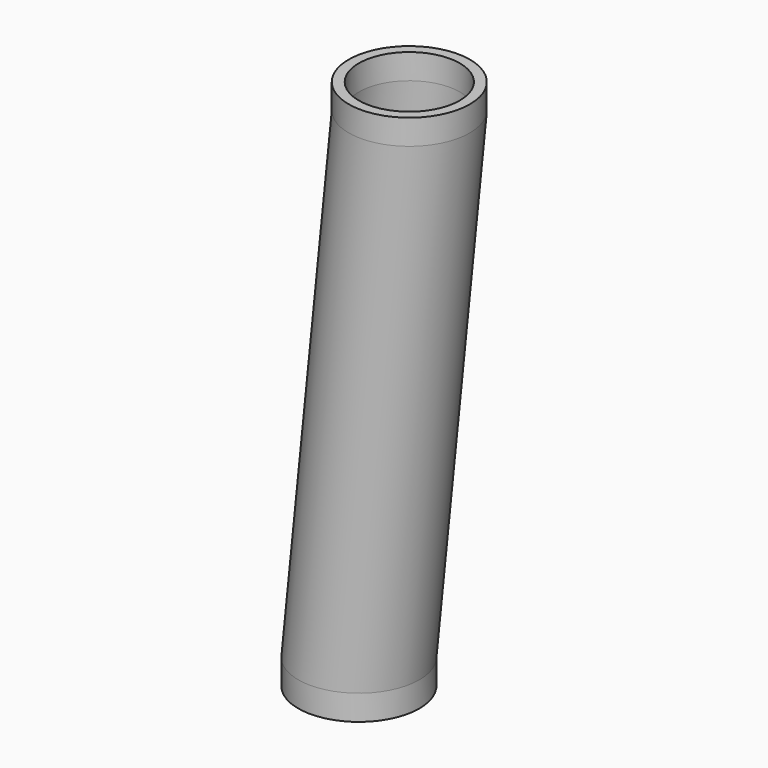
from build123d import *

# Parameters (mm, degrees)
F0_R        = 15.24
F0_R_2      = 12.7
F1_DEPTH    = 6.35
F3_R        = 15.24
F3_R_2      = 12.7
F4_DEPTH    = 6.35
F1_FACE_R   = 15.24
F1_FACE_R_2 = 12.7


with BuildPart() as f1:
    # F0 (on Top) → F1 (new body)
    with BuildSketch(Plane.XY):
        Circle(F0_R)
        Circle(F0_R_2, mode=Mode.SUBTRACT)
    extrude(amount=F1_DEPTH)


with BuildPart() as f4:
    # F3 (on offset) → F4 (new body)
    with BuildSketch(Plane.XY.offset(137.980208)):
        with Locations((12.7, 0)):
            Circle(F3_R)
        with Locations((12.7, 0)):
            Circle(F3_R_2, mode=Mode.SUBTRACT)
    extrude(amount=-F4_DEPTH)


with BuildPart() as f6:
    # F6: sweep along a path in F5
    with BuildLine(Plane.XZ) as f6_path:
        Line((0, 6.35), (12.7, 131.630208))
    # F1_face (on face) → F6 (sweep)
    with BuildSketch(Plane.XY.offset(6.35)):
        Circle(F1_FACE_R)
        Circle(F1_FACE_R_2, mode=Mode.SUBTRACT)
    sweep(path=f6_path.line)


solid = Compound([f1.part, f4.part, f6.part])
